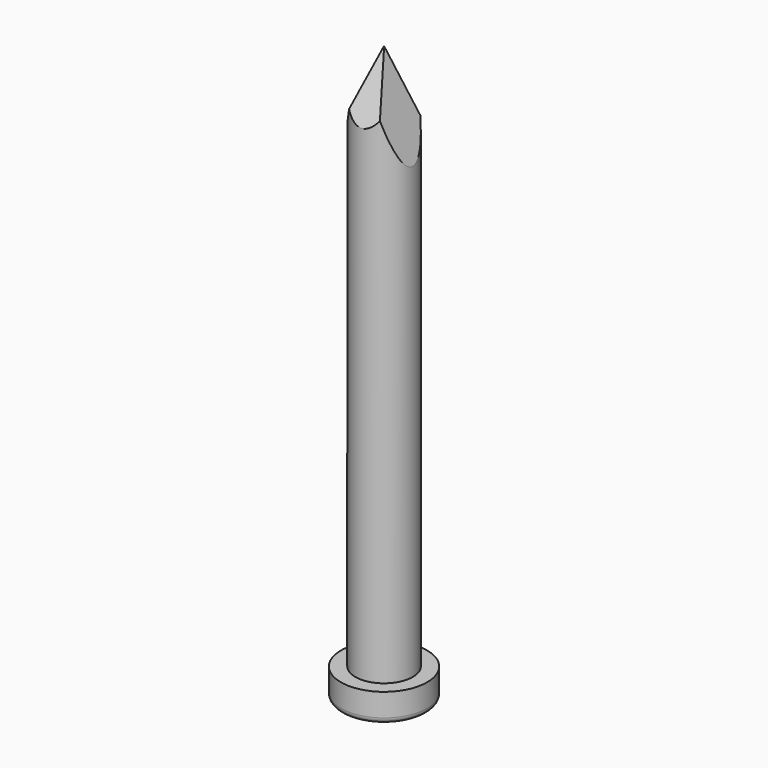
from build123d import *

# Parameters (mm, degrees)
F0_R          = 0.5
F1_DEPTH      = 10
F0_R_2        = 0.75
F2_DEPTH      = 0.5
F3_R          = 0.1
F5_DEPTH      = 25
F5_DEPTH_BACK = 25
F7_DEPTH      = 25
F7_DEPTH_BACK = 25


with BuildPart() as f1:
    # F0 (on Top) → F1 (new body)
    with BuildSketch(Plane.XY):
        Circle(F0_R)
    extrude(amount=F1_DEPTH)

    # F0 (on Top) → F2 (join)
    with BuildSketch(Plane.XY):
        Circle(F0_R_2)
        Circle(F0_R, mode=Mode.SUBTRACT)
    extrude(amount=F2_DEPTH)

    # F3
    f3_edges = [f1.edges().sort_by_distance(p)[0] for p in [
        (-0.75, 0, 0),
    ]]
    fillet(f3_edges, radius=F3_R)

    # F4 (on Right) → F5 (cut, two sides)
    with BuildSketch(Plane.YZ) as f5_sk:
        Polygon((-1.2106864015, 7.4500655755), (0, 9.998658672), (0.8667384973, 7.4500655755), (0.8667384973, 10.8232041821), (-1.2106864015, 10.8232041821), (-1.2106864015, 7.4928989634), align=None)
    extrude(amount=-F5_DEPTH, mode=Mode.SUBTRACT)
    extrude(f5_sk.sketch, amount=F5_DEPTH_BACK, mode=Mode.SUBTRACT)

    # F6 (on Front) → F7 (cut, two sides)
    with BuildSketch(Plane.XZ) as f7_sk:
        Polygon((-0.8896822692, 7.1156308986), (0, 10.0040659308), (0.8585277828, 7.1156308986), (1.0901562637, 10.4937674478), (-0.8896822692, 10.4937674478), align=None)
    extrude(amount=F7_DEPTH, mode=Mode.SUBTRACT)
    extrude(f7_sk.sketch, amount=-F7_DEPTH_BACK, mode=Mode.SUBTRACT)


solid = f1.part
